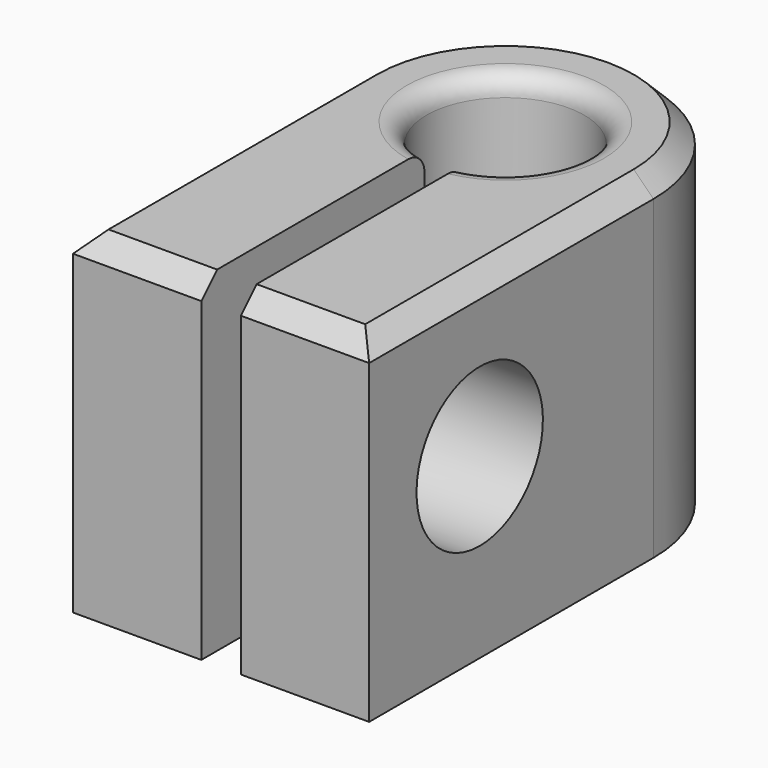
from build123d import *

# Parameters (mm, degrees)
BOX001_W                = 2
BOX001_H                = 17
BOX001_DEPTH            = 17
CYLINDER002_R           = 4
CYLINDER002_DEPTH       = 15
CYLINDER002_PITCH_ANGLE = 90
CYLINDER001_R           = 4
CYLINDER001_DEPTH       = 17
BOX_W                   = 15
BOX_H                   = 18
BOX_DEPTH               = 17
CYLINDER_R              = 7.5
CYLINDER_DEPTH          = 17
CHAMFER_SIZE            = 1
FILLET_R                = 1


with BuildPart() as box001:
    # Box001 → Box001 (new body)
    with BuildSketch(Plane(origin=(6.5, 0, 0), x_dir=(1, 0, 0), z_dir=(0, 0, 1))):
        with Locations((1, 8.5)):
            Rectangle(BOX001_W, BOX001_H)
    extrude(amount=BOX001_DEPTH)


with BuildPart() as cylinder002:
    # Cylinder002 → Cylinder002 (new body)
    with BuildSketch(Plane.XY):
        Circle(CYLINDER002_R)
    extrude(amount=CYLINDER002_DEPTH)


with BuildPart() as cylinder002_1:
    # Cylinder002 pitch: moved
    add(cylinder002.part.rotate(Axis((0, 0, 0), (0, 1, 0)), CYLINDER002_PITCH_ANGLE))


with BuildPart() as cylinder002_2:
    # Cylinder002 placement: moved
    add(cylinder002_1.part.moved(Location((0, 7, 9))))


with BuildPart() as cylinder001:
    # Cylinder001 → Cylinder001 (new body)
    with BuildSketch(Plane(origin=(7.5, 18, 0), x_dir=(1, 0, 0), z_dir=(0, 0, 1))):
        Circle(CYLINDER001_R)
    extrude(amount=CYLINDER001_DEPTH)


with BuildPart() as box:
    # Box → Box (new body)
    with BuildSketch(Plane.XY):
        with Locations((7.5, 9)):
            Rectangle(BOX_W, BOX_H)
    extrude(amount=BOX_DEPTH)


with BuildPart() as fillet_body:
    # Cylinder → Cylinder (new body)
    with BuildSketch(Plane(origin=(7.5, 18, 0), x_dir=(1, 0, 0), z_dir=(0, 0, 1))):
        Circle(CYLINDER_R)
    extrude(amount=CYLINDER_DEPTH)

    # Fusion: union Box
    add(box.part)

    # Cut: cut Cylinder001
    add(cylinder001.part, mode=Mode.SUBTRACT)

    # Cut001: cut Cylinder002
    add(cylinder002_2.part, mode=Mode.SUBTRACT)

    # Cut002: cut Box001
    add(box001.part, mode=Mode.SUBTRACT)

    # Chamfer
    chamfer_edges = [fillet_body.edges().sort_by_distance(p)[0] for p in [
        (3.25, 0, 17),
        (0, 9, 17),
        (7.5, 25.5, 17),
        (15, 9, 17),
        (11.75, 0, 17),
    ]]
    chamfer(chamfer_edges, length=CHAMFER_SIZE)

    # Fillet
    fillet_edges = [fillet_body.edges().sort_by_distance(p)[0] for p in [
        (4.337722, 15.55051, 17),
        (7.5, 22, 17),
        (10.662278, 15.55051, 17),
    ]]
    fillet(fillet_edges, radius=FILLET_R)


solid = fillet_body.part
